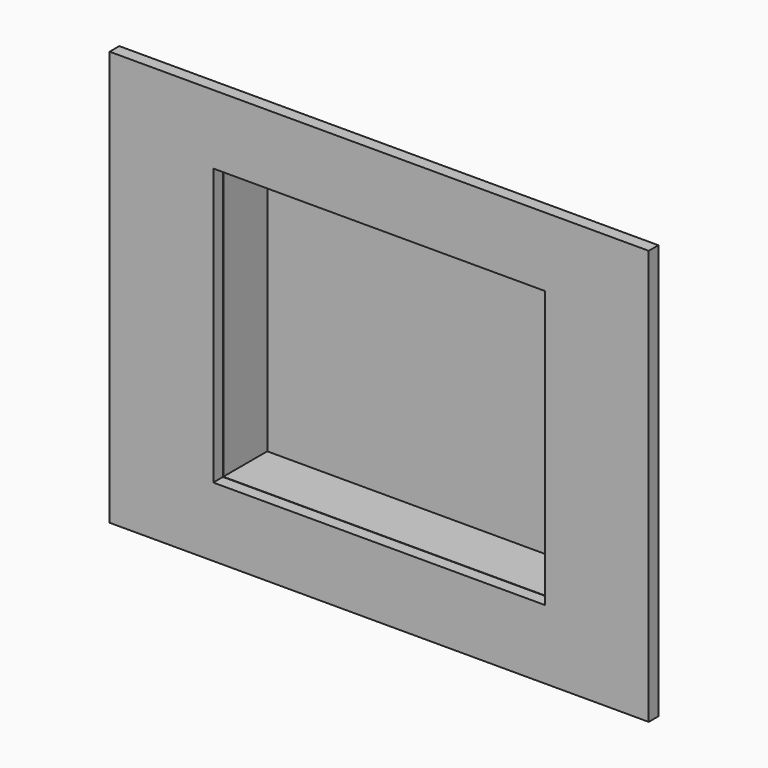
from build123d import *

# Parameters (mm, degrees)
F0_W     = 3962.4
F0_H     = 3048
F0_W_2   = 2438.4
F0_H_2   = 2032
F1_DEPTH = 88.9
F2_DEPTH = 406.4
F3_T     = -2.54


with BuildPart() as f1:
    # F0 (on Front) → F1 (new body)
    with BuildSketch(Plane.XZ):
        Rectangle(F0_W, F0_H)
        Rectangle(F0_W_2, F0_H_2, mode=Mode.SUBTRACT)
    extrude(amount=F1_DEPTH)


with BuildPart() as f2:
    # F0 (on Front) → F2 (new body)
    with BuildSketch(Plane.XZ):
        Rectangle(F0_W_2, F0_H_2)
    extrude(amount=-F2_DEPTH)

    # F3
    f3_openings = [f2.faces().sort_by_distance(p)[0] for p in [
        (0, 0, 0),
    ]]
    offset(amount=F3_T, openings=f3_openings)


solid = Compound([f1.part, f2.part])
